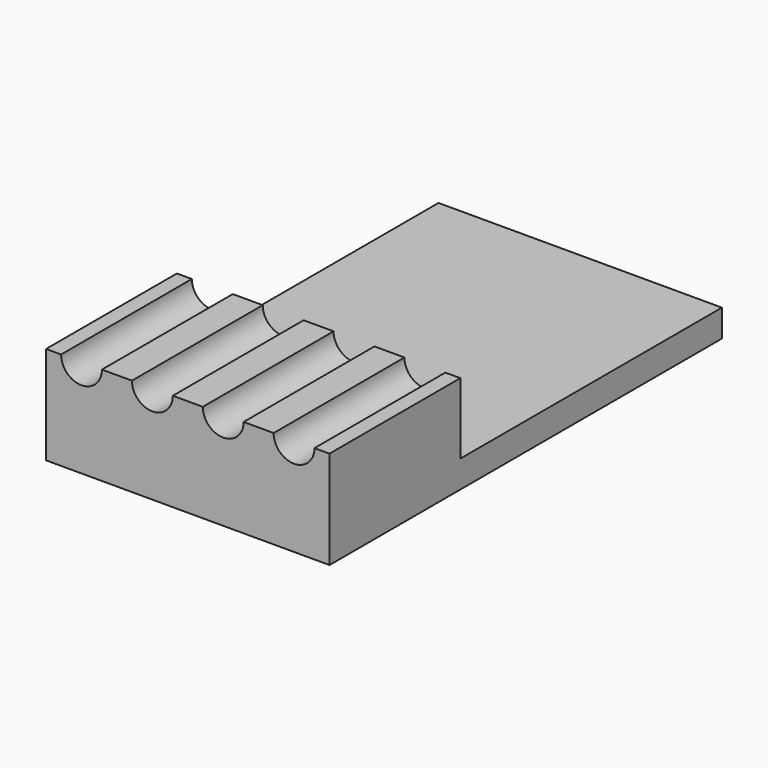
from build123d import *

# Parameters (mm, degrees)
BOX023_W          = 30
BOX023_H          = 20
BOX023_DEPTH      = 9.2
BOX007_W          = 26
BOX007_H          = 12
BOX007_DEPTH      = 5.2
CYLINDER002_R     = 0.75
CYLINDER002_DEPTH = 7
ARRAY002_X_COUNT  = 4
ARRAY002_X_PITCH  = 2.6
ARRAY002_Y_COUNT  = 2
ARRAY002_Y_PITCH  = 1
BOX_W             = 10.4
BOX_H             = 18
BOX_DEPTH         = 7.2


with BuildPart() as obj1:
    # Box023 → Box023 (new body)
    with BuildSketch(Plane(origin=(-1, -2, 3.6), x_dir=(1, 0, 0), z_dir=(0, 0, 1))):
        with Locations((15, 10)):
            Rectangle(BOX023_W, BOX023_H)
    extrude(amount=BOX023_DEPTH)


with BuildPart() as cube_10_base004:
    # Box007 → Box007 (new body)
    with BuildSketch(Plane(origin=(0, 6, 1), x_dir=(1, 0, 0), z_dir=(0, 0, 1))):
        with Locations((13, 6)):
            Rectangle(BOX007_W, BOX007_H)
    extrude(amount=BOX007_DEPTH)


with BuildPart() as array002:
    # Cylinder002 → Cylinder002 (new body)
    with BuildSketch(Plane(origin=(1.3, -1, 3.6), x_dir=(1, 0, 0), z_dir=(0, 1, 0))):
        Circle(CYLINDER002_R)
    extrude(amount=CYLINDER002_DEPTH)

    # Array002 X: Array002 ×4


with BuildPart() as array002_1:
    add(array002.part)
    with Locations(*[(i * ARRAY002_X_PITCH, 0, 0) for i in range(1, ARRAY002_X_COUNT)]):
        add(array002.part)

    # Array002 Y: Array002 ×2


with BuildPart() as array002_2:
    add(array002_1.part)
    with Locations(*[(0, i * ARRAY002_Y_PITCH, 0) for i in range(1, ARRAY002_Y_COUNT)]):
        add(array002_1.part)


with BuildPart() as obj2:
    # Box → Box (new body)
    with BuildSketch(Plane.XY):
        with Locations((5.2, 9)):
            Rectangle(BOX_W, BOX_H)
    extrude(amount=BOX_DEPTH)

    # Cut002: cut Array002
    add(array002_2.part, mode=Mode.SUBTRACT)

    # Cut006: cut cube_10_base004
    add(cube_10_base004.part, mode=Mode.SUBTRACT)

    # Cut019: cut obj1
    add(obj1.part, mode=Mode.SUBTRACT)


solid = obj2.part
